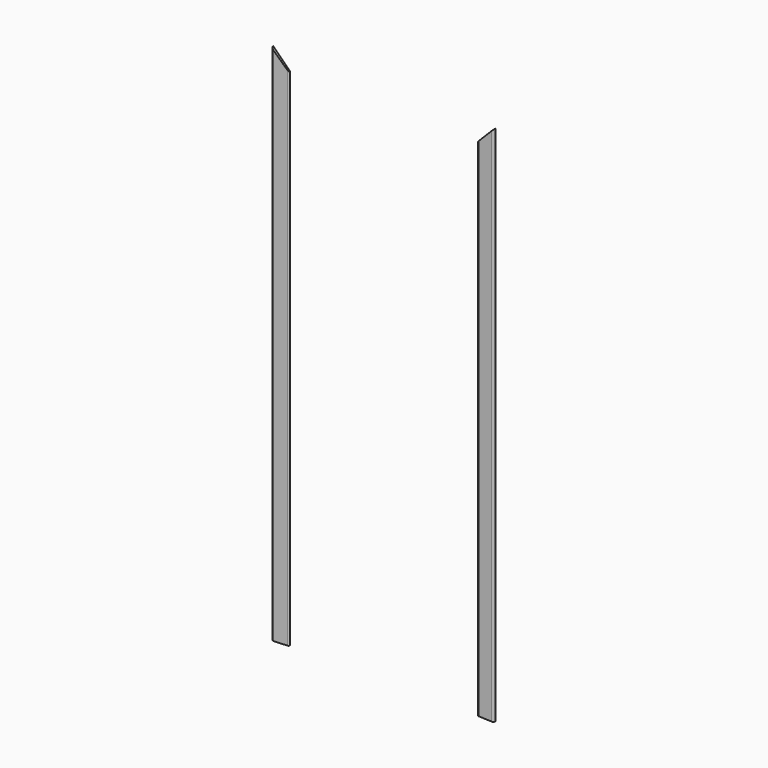
from build123d import *

# Parameters (mm, degrees)
EXTRUDE039434_DEPTH = 500
SKETCH224_W         = 1600
SKETCH224_H         = 400
EXTRUDE039435_DEPTH = 500


with BuildPart() as extrude039434_internal_superior:
    # Sketch223 (on Sketch) → Extrude039434 (new body, symmetric)
    with BuildSketch(Plane.XZ):
        Polygon((-600, 2300), (600, 2300), (200, 1900), (-200, 1900), align=None)
    extrude(amount=EXTRUDE039434_DEPTH, both=True)


with BuildPart() as extrude039435:
    # Sketch224 (on Sketch) → Extrude039435 (new body, symmetric)
    with BuildSketch(Plane.XZ.offset(140)):
        with Locations((0, -200)):
            Rectangle(SKETCH224_W, SKETCH224_H)
    extrude(amount=EXTRUDE039435_DEPTH, both=True)


with BuildPart() as external_trim_vertical:
    # Sweep011: sweep along a path in Sketch194
    with BuildLine(Plane.XZ.offset(140)) as sweep011_path:
        Line((-390, 2090), (-390, 0))
        Line((-390, 0), (390, 0))
        Line((390, 0), (390, 2090))
        Line((390, 2090), (-390, 2090))
    # Clone2D027 (on Sketch) → Sweep011 (sweep)
    with BuildSketch(Plane(origin=(0, -140, 0), x_dir=(0, 0, 1), z_dir=(1, 0, 0))):
        with BuildLine():
            Line((-61.571224, 10), (-5.678418, 7))
            ThreePointArc((-5.678418, 7), (-1.645147, 5.136003), (0, 1.008624))
            Line((0, 1.008624), (0, 0))
            Line((0, 0), (-70, 0))
            Line((-70, 0), (-70, 2.011499))
            ThreePointArc((-70, 2.011499), (-67.503171, 7.81797), (-61.571224, 10))
        make_face()
    sweep(path=sweep011_path.line, is_frenet=True, transition=Transition.RIGHT)

    # Cut075: cut Extrude039435
    add(extrude039435.part, mode=Mode.SUBTRACT)

    # Cut071: cut Extrude039434_Internal_superior_
    add(extrude039434_internal_superior.part, mode=Mode.SUBTRACT)


solid = external_trim_vertical.part
